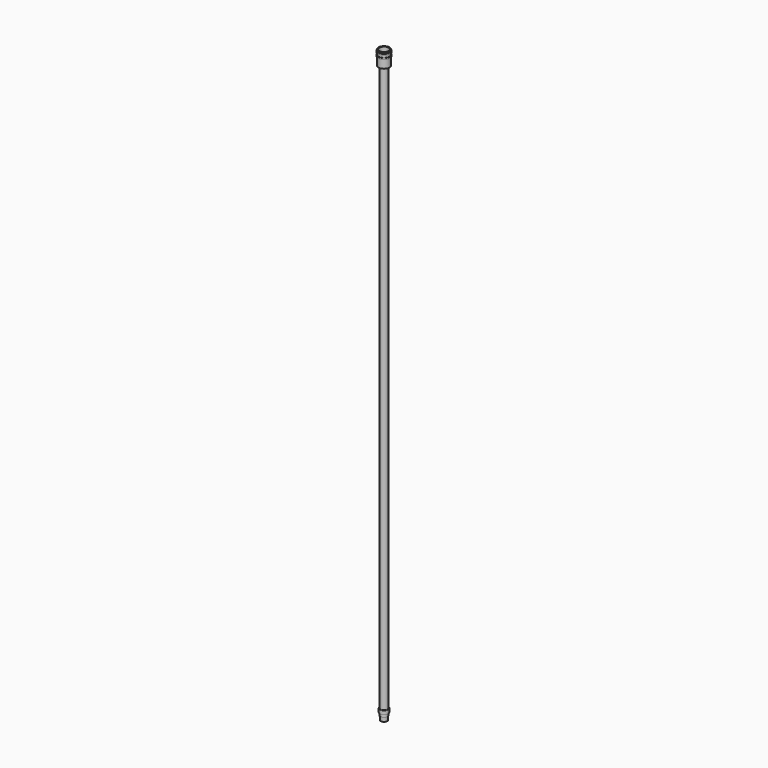
from build123d import *

# Parameters (mm, degrees)
CYLINDER006_R              = 4
CYLINDER006_DEPTH          = 620
REVOLVE004_PLACEMENT_ANGLE = 180
CYLINDER007_R              = 5
CYLINDER007_DEPTH          = 30
REVOLVE005_PLACEMENT_ANGLE = 180


with BuildPart() as cylinder006:
    # Cylinder006 → Cylinder006 (new body)
    with BuildSketch(Plane.XY):
        Circle(CYLINDER006_R)
    extrude(amount=CYLINDER006_DEPTH)


with BuildPart() as revolve004:
    # Sketch004 → Revolve004 (revolve)
    with BuildSketch(Plane.XZ):
        Polygon((0, 0), (0, 4), (4, 4), (4, 7), (1, 7), (1, 11.5), (3.5, 11.5), (3.5, 7), (0.5, 7), (0.5, 4), (4.5, 4), (4.5, 0), align=None)
    revolve(axis=Axis((0, 0, 0), (0, 0, 1)))


with BuildPart() as revolve004_1:
    # Revolve004 placement: moved
    add(revolve004.part.rotate(Axis((0, 0, 0), (0, 1, 0)), REVOLVE004_PLACEMENT_ANGLE))


with BuildPart() as cylinder007:
    # Cylinder007 → Cylinder007 (new body)
    with BuildSketch(Plane.XY.offset(618)):
        Circle(CYLINDER007_R)
    extrude(amount=CYLINDER007_DEPTH)


with BuildPart() as straw002:
    # Sketch005 → Revolve005 (revolve)
    with BuildSketch(Plane.YZ):
        Polygon((0, 0), (0, 1), (-0.5, 1), (-0.5, 2.5), (0, 2.5), (0, 5), (-0.5, 5), (-0.5, 6.5), (0, 6.5), (0, 15.5), (6, 15.5), (6, 6.5), (6.5, 6.5), (6.5, 5), (6, 5), (6, 2.5), (6.5, 2.5), (6.5, 1), (6, 1), (6, 0), align=None)
    revolve(axis=Axis((0, 0, 0), (0, 0, 1)))


with BuildPart() as straw002_1:
    # Revolve005 placement: moved
    add(straw002.part.moved(Location((0, 0, 631.5))).rotate(Axis((0, 0, 631.5), (1, 0, 0)), REVOLVE005_PLACEMENT_ANGLE))

    # Cut005: cut Cylinder007
    add(cylinder007.part, mode=Mode.SUBTRACT)

    # Fusion002: union Cylinder006, Revolve004
    add(cylinder006.part)
    add(revolve004_1.part)


with BuildPart() as straw002_2:
    # Fusion002 placement: moved
    add(straw002_1.part.moved(Location((0, 191.5, -41.53))))


solid = straw002_2.part
